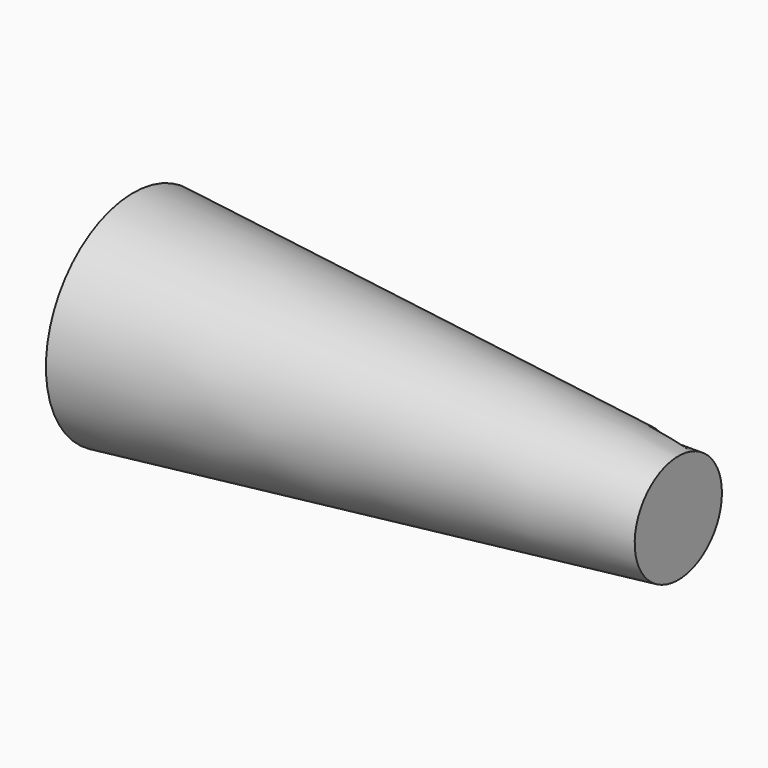
from build123d import *

# Parameters (mm, degrees)
F1_R     = 5
F2_R     = 10
F5_DEPTH = 5


with BuildPart() as f3:
    # F1 (on offset) → F3 section 0
    with BuildSketch(Plane.YZ.offset(50)):
        Circle(F1_R)
    # F2 (on Right) → F3 section 1
    with BuildSketch(Plane.YZ):
        Circle(F2_R)
    loft()

    # F4 (on face) → F5 (cut)
    with BuildSketch(Plane.YZ.offset(50)):
        with BuildLine():
            Line((5.64992, 4.784543), (1.451947, 4.784543))
            ThreePointArc((1.451947, 4.784543), (4.016201, 2.978277), (5, 0))
            ThreePointArc((5, 0), (3.684566, -3.379937), (0.430411, -4.98144))
            Line((0.430411, -4.98144), (5.64992, -4.530459))
            Line((5.64992, -4.530459), (5.64992, 3.919373))
            Line((5.64992, 3.919373), (5.64992, 4.784543))
        make_face()
    extrude(amount=-F5_DEPTH, mode=Mode.SUBTRACT)


solid = f3.part
